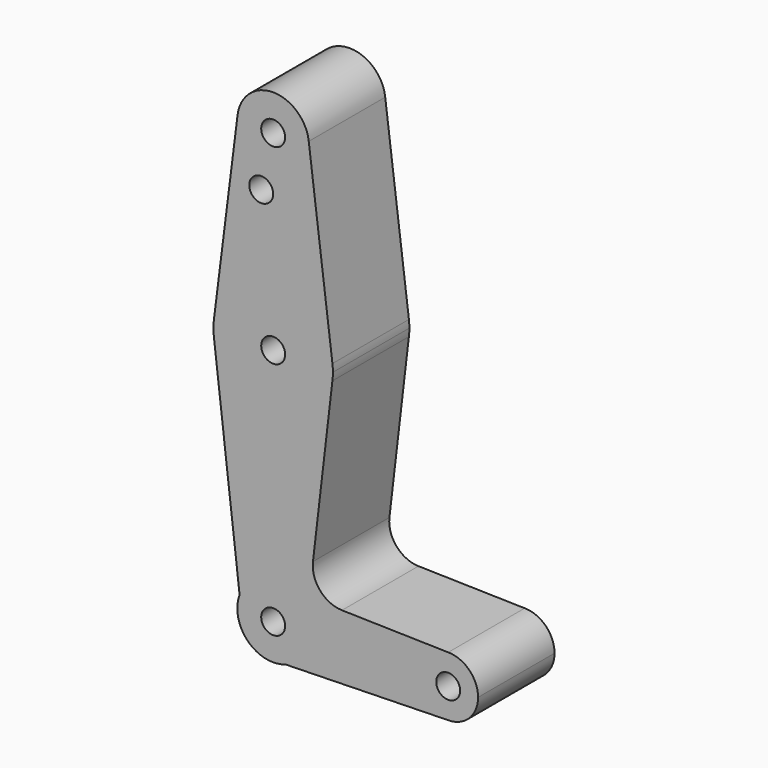
from build123d import *

# Parameters (mm, degrees)
F0_R     = 3.175
F1_DEPTH = 25.4


with BuildPart() as f1:
    # F0 (on Front) → F1 (new body)
    with BuildSketch(Plane.XZ):
        with BuildLine():
            ThreePointArc((15.740918, 61.441089), (0, 47.625), (-15.740918, 61.441089))
            Line((-15.740918, 61.441089), (-8.916017, 3.351158))
            ThreePointArc((-8.916017, 3.351158), (1.703021, 9.371518), (9.525, 0))
            ThreePointArc((9.525, 0), (7.798563, -5.468824), (3.245097, -8.955165))
            Line((3.245097, -8.955165), (46.507411, -7.9375))
            ThreePointArc((46.507411, -7.9375), (38.569911, 0), (46.507411, 7.9375))
            Line((46.507411, 7.9375), (18.284579, 8.601389))
            ThreePointArc((18.284579, 8.601389), (12.469246, 11.336125), (10.57565, 17.477067))
            Line((10.57565, 17.477067), (15.740918, 61.441089))
        make_face()
        with BuildLine():
            ThreePointArc((9.525, 0), (1.703021, 9.371518), (-8.916017, 3.351158))
            ThreePointArc((-8.916017, 3.351158), (-6.775045, -6.695102), (3.245097, -8.955165))
            ThreePointArc((3.245097, -8.955165), (7.798563, -5.468824), (9.525, 0))
        make_face()
        Circle(F0_R, mode=Mode.SUBTRACT)
        with BuildLine():
            ThreePointArc((46.507411, 7.9375), (38.569911, 0), (46.507411, -7.9375))
            ThreePointArc((46.507411, -7.9375), (52.120071, -5.61266), (54.444911, 0))
            ThreePointArc((54.444911, 0), (52.120071, 5.61266), (46.507411, 7.9375))
        make_face()
        with Locations((46.507411, 0)):
            Circle(F0_R, mode=Mode.SUBTRACT)
        with BuildLine():
            ThreePointArc((15.875, 63.5), (15.843839, 64.494173), (15.75048, 65.484443))
            ThreePointArc((15.75048, 65.484443), (0, 79.375), (-15.75048, 65.484443))
            ThreePointArc((-15.75048, 65.484443), (-15.874956, 63.46246), (-15.740918, 61.441089))
            ThreePointArc((-15.740918, 61.441089), (0, 47.625), (15.740918, 61.441089))
            ThreePointArc((15.740918, 61.441089), (15.841444, 62.468364), (15.875, 63.5))
        make_face()
        with Locations((0, 63.5)):
            Circle(F0_R, mode=Mode.SUBTRACT)
        with BuildLine():
            ThreePointArc((9.458135, 115.426639), (9.508269, 114.864311), (9.525, 114.3))
            ThreePointArc((9.525, 114.3), (-0.564311, 104.791731), (-9.458135, 115.426639))
            Line((-9.458135, 115.426639), (-15.75048, 65.484443))
            ThreePointArc((-15.75048, 65.484443), (0, 79.375), (15.75048, 65.484443))
            Line((15.75048, 65.484443), (9.458135, 115.426639))
        make_face()
        with Locations((-3.175, 100.0252)):
            Circle(F0_R, mode=Mode.SUBTRACT)
        with BuildLine():
            ThreePointArc((-9.458135, 115.426639), (-0.564311, 104.791731), (9.525, 114.3))
            ThreePointArc((9.525, 114.3), (9.508269, 114.864311), (9.458135, 115.426639))
            ThreePointArc((9.458135, 115.426639), (0, 123.825), (-9.458135, 115.426639))
        make_face()
        with Locations((0, 114.3)):
            Circle(F0_R, mode=Mode.SUBTRACT)
    extrude(amount=F1_DEPTH)


solid = f1.part
